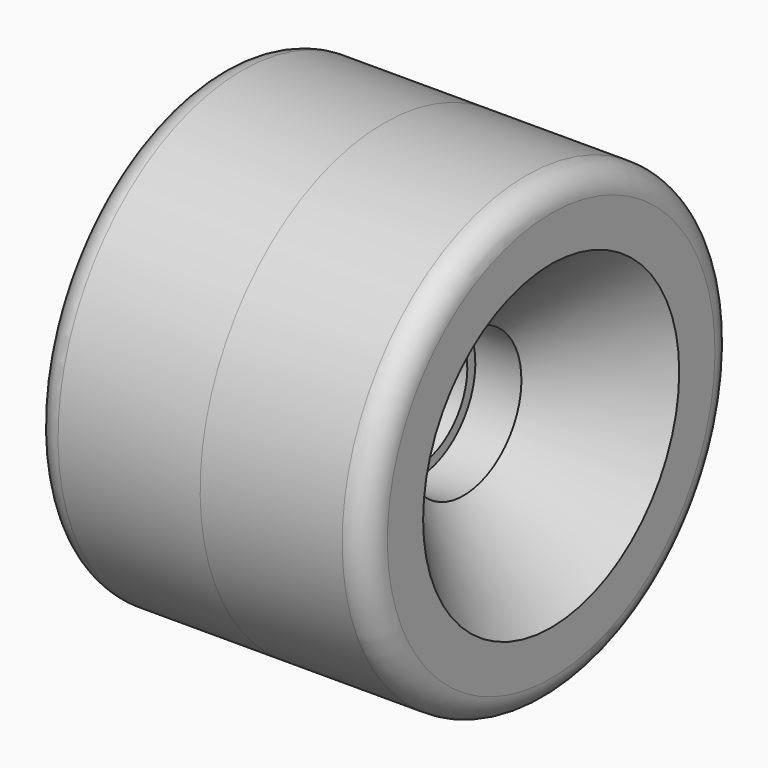
from build123d import *


with BuildPart() as f1:
    # F0 (on Front) → F1 (revolve)
    with BuildSketch(Plane.XZ):
        with BuildLine():
            Line((0, 34.925), (0, 9.476))
            Line((0, 9.476), (5.08, 9.476))
            Line((5.08, 9.476), (5.08, 11))
            Line((5.08, 11), (12.08, 11))
            Line((12.08, 11), (25.4, 24.32))
            Line((25.4, 24.32), (25.4, 31.115))
            ThreePointArc((25.4, 31.115), (24.284077, 33.809077), (21.59, 34.925))
            Line((21.59, 34.925), (0, 34.925))
        make_face()
    revolve(axis=Axis((17.488407, 0, 0), (1, 0, 0)))

    # F2: F1 across face


with BuildPart() as f1_1:
    add(f1.part)
    add(f1.part.mirror(Plane(origin=(0, 0, 0), x_dir=(0, -1, 0), z_dir=(-1, 0, 0))))


solid = f1_1.part
